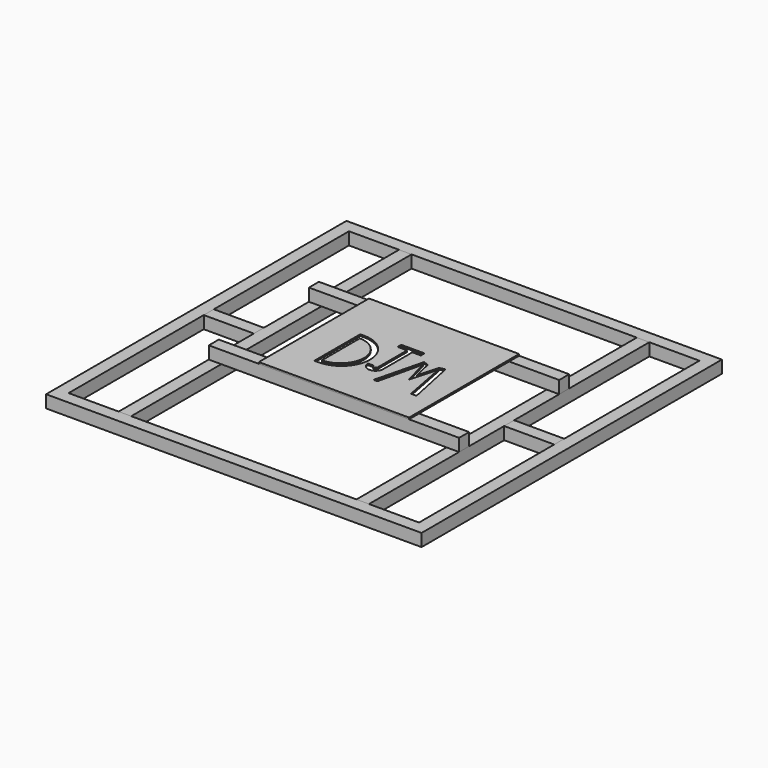
from build123d import *

# Parameters (mm, degrees)
F0_W      = 762
F0_H      = 762
F0_W_2    = 711.2
F0_H_2    = 711.2
F1_DEPTH  = 25.4
F2_W      = 25.4
F2_H      = 711.2
F3_DEPTH  = 25.4
F4_W      = 482.6
F4_H      = 25.4
F4_W_2    = 25.4
F5_DEPTH  = 25.4
F6_W      = 101.6
F6_H      = 25.4
F7_DEPTH  = 25.4
F8_W      = 304.8
F8_H      = 25.4
F8_H_2    = 254
F9_DEPTH  = 3.175
F10_W     = 10.6899626553
F10_H     = 73.765091598
F11_DEPTH = 12.7


with BuildPart() as f1:
    # F0 (on Top) → F1 (new body)
    with BuildSketch(Plane.XY):
        with Locations((30.9446323663, 116.409232023)):
            Rectangle(F0_W, F0_H)
        with Locations((30.9446323663, 116.409232023)):
            Rectangle(F0_W_2, F0_H_2, mode=Mode.SUBTRACT)
    extrude(amount=F1_DEPTH)


with BuildPart() as f3:
    # F2 (on face) → F3 (new body)
    with BuildSketch(Plane.XY.offset(25.4)):
        with Locations((272.2446323663, 116.409232023)):
            Rectangle(F2_W, F2_H)
    extrude(amount=-F3_DEPTH)


with BuildPart() as f3b:
    # F2 (on face) → F3, piece 2 (new body)
    with BuildSketch(Plane.XY.offset(25.4)):
        with Locations((-210.3553676337, 116.409232023)):
            Rectangle(F2_W, F2_H)
    extrude(amount=-F3_DEPTH)


with BuildPart() as f5:
    # F4 (on face) → F5 (new body)
    with BuildSketch(Plane.XY.offset(25.4)):
        with Locations((43.6446323663, 2.109232023)):
            Rectangle(F4_W, F4_H)
        with Locations((-210.3553676337, 2.109232023)):
            Rectangle(F4_W_2, F4_H)
    extrude(amount=F5_DEPTH)


with BuildPart() as f5b:
    # F4 (on face) → F5, piece 2 (new body)
    with BuildSketch(Plane.XY.offset(25.4)):
        with Locations((43.6446323663, 256.109232023)):
            Rectangle(F4_W, F4_H)
        with Locations((-210.3553676337, 256.109232023)):
            Rectangle(F4_W_2, F4_H)
    extrude(amount=F5_DEPTH)


with BuildPart() as f7:
    # F6 (on face) → F7 (new body)
    with BuildSketch(Plane.XY.offset(25.4)):
        with Locations((335.7446323663, 116.409232023)):
            Rectangle(F6_W, F6_H)
    extrude(amount=-F7_DEPTH)


with BuildPart() as f7b:
    # F6 (on face) → F7, piece 2 (new body)
    with BuildSketch(Plane.XY.offset(25.4)):
        with Locations((-273.8553676337, 116.409232023)):
            Rectangle(F6_W, F6_H)
    extrude(amount=-F7_DEPTH)


with BuildPart() as f9:
    # F8 (on face) → F9 (new body)
    with BuildSketch(Plane.XY.offset(50.8)):
        with Locations((30.9446323663, 2.109232023)):
            Rectangle(F8_W, F8_H)
        with Locations((30.9446323663, 141.809232023)):
            Rectangle(F8_W, F8_H_2)
    extrude(amount=F9_DEPTH)

    # F10 (on face) → F11 (cut, symmetric)
    with BuildSketch(Plane.XY.offset(53.975)):
        Polygon((-47.2557544708, 164.3294990063), (-55.5580370128, 164.3294990063), (-55.5580370128, 47.8553287685), (-47.2557544708, 47.8553287685), (-47.2557544708, 56.3918836415), (-47.2557544708, 152.8043150902), align=None)
        with BuildLine():
            ThreePointArc((-47.2557544708, 47.8553287685), (10.9813306481, 106.0924138874), (-47.2557544708, 164.3294990063))
            Line((-47.2557544708, 164.3294990063), (-47.2557544708, 152.8043150902))
            ThreePointArc((-47.2557544708, 152.8043150902), (0.0474647178, 104.5980993658), (-47.2557544708, 56.3918836415))
            Line((-47.2557544708, 56.3918836415), (-47.2557544708, 47.8553287685))
        make_face()
        with Locations((42.2865953296, 130.5462755263)):
            Rectangle(F10_W, F10_H)
        Polygon((65.0834441185, 176.6757965088), (17.7797805518, 176.6757965088), (17.7797805518, 167.4288213253), (36.941614002, 167.4288213253), (47.6315766573, 167.4288213253), (65.0834441185, 167.4288213253), align=None)
        with BuildLine():
            Line((47.6315766573, 93.6637297273), (36.941614002, 93.6637297273))
            ThreePointArc((36.941614002, 93.6637297273), (32.4617940933, 89.1839098185), (27.9819741845, 93.6637297273))
            Line((27.9819741845, 93.6637297273), (16.5853984654, 93.6637297273))
            ThreePointArc((16.5853984654, 93.6637297273), (32.1084875613, 78.1406406313), (47.6315766573, 93.6637297273))
        make_face()
        Polygon((58.616489172, 55.2153401077), (66.5894523263, 55.5991791189), (86.9810134172, 144.9812352657), (101.9450649619, 90.4011502862), (117.1996220946, 146.4159190655), (134.7245126963, 55.0988465548), (146.0527032614, 55.0988465548), (125.2292245626, 154.5646637678), (113.8464854443, 152.1816518728), (102.4598643225, 110.3699529974), (93.5559123755, 149.0179747343), (83.0970257521, 153.1798094511), align=None)
    extrude(amount=F11_DEPTH, both=True, mode=Mode.SUBTRACT)


solid = Compound([f1.part, f3.part, f3b.part, f5.part, f5b.part, f7.part, f7b.part, f9.part])
